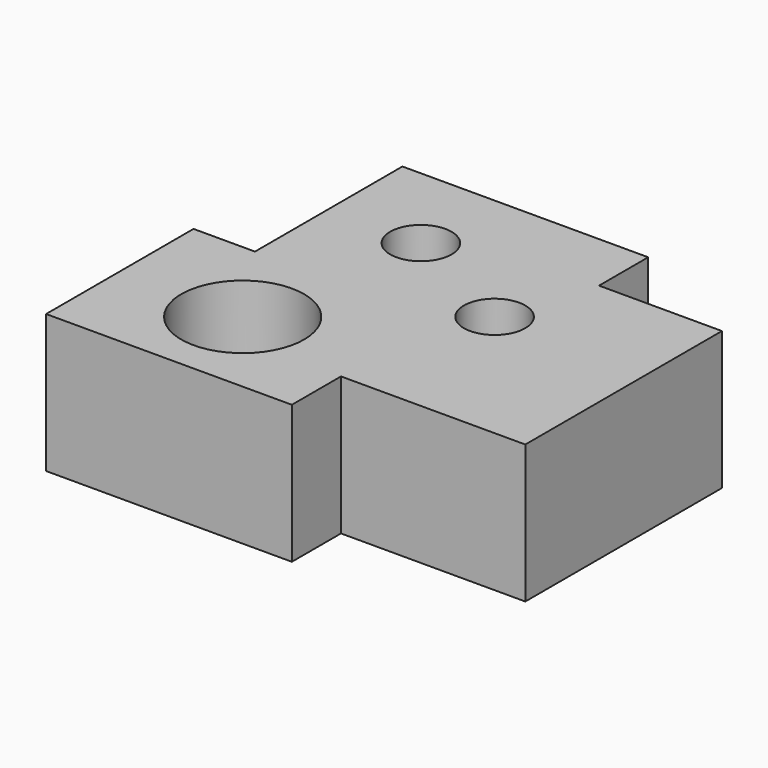
from build123d import *

# Parameters (mm, degrees)
F0_R     = 12.7
F0_R_2   = 6.35
F1_DEPTH = 28.575


with BuildPart() as f1:
    # F0 (on Top) → F1 (new body)
    with BuildSketch(Plane.XY):
        Polygon((-44.45, -38.1), (6.35, -38.1), (6.35, -25.4), (44.45, -25.4), (44.45, 25.4), (19.05, 25.4), (19.05, 38.1), (-31.75, 38.1), (-31.75, 0), (-44.45, 0), align=None)
        with Locations((-19.05, -19.05)):
            Circle(F0_R, mode=Mode.SUBTRACT)
        with Locations((-12.7, 19.05)):
            Circle(F0_R_2, mode=Mode.SUBTRACT)
        with Locations((12.7, 6.35)):
            Circle(F0_R_2, mode=Mode.SUBTRACT)
    extrude(amount=F1_DEPTH)


solid = f1.part
